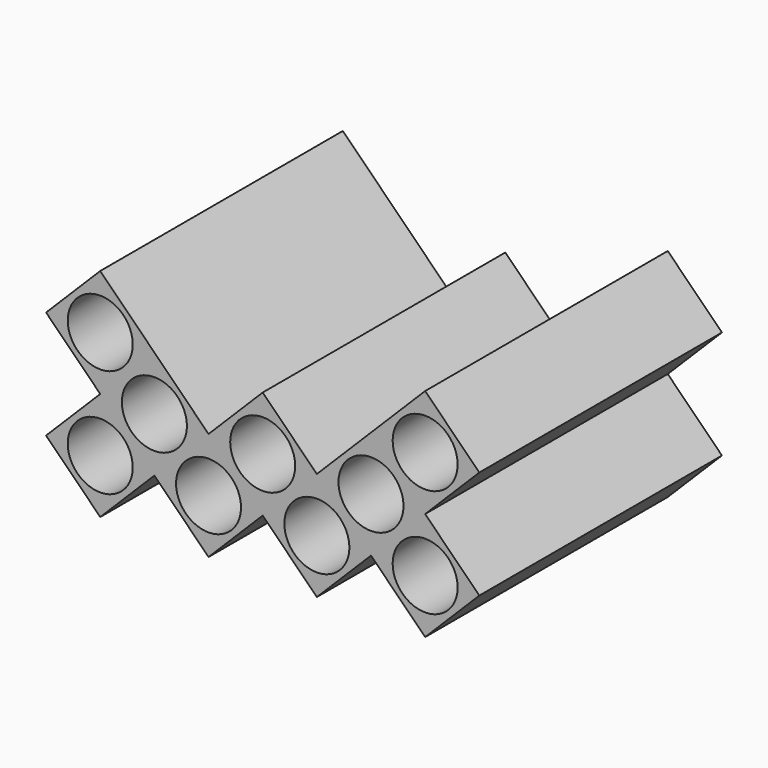
from build123d import *

# Parameters (mm, degrees)
F1_DEPTH = 70
F2_D     = 15


with BuildPart() as f1:
    # F0 (on Front) → F1 (new body)
    with BuildSketch(Plane.XZ):
        Polygon((0, 0), (-12.5, -12.5), (0, -25), (12.5, -12.5), align=None)
        Polygon((12.5, 12.5), (0, 0), (12.5, -12.5), (25, 0), align=None)
        Polygon((25, 0), (12.5, -12.5), (25, -25), (37.5, -12.5), align=None)
        Polygon((37.5, 12.5), (25, 0), (37.5, -12.5), (50, 0), align=None)
        Polygon((50, 0), (37.5, -12.5), (50, -25), (62.5, -12.5), align=None)
        Polygon((50, 25), (37.5, 12.5), (50, 0), (62.5, 12.5), align=None)
        Polygon((-12.5, 12.5), (-25, 0), (-12.5, -12.5), (0, 0), align=None)
        Polygon((-12.5, -12.5), (-25, 0), (-37.5, -12.5), (-25, -25), align=None)
        Polygon((-37.5, 12.5), (-25, 0), (-12.5, 12.5), (-25, 25), align=None)
    extrude(amount=F1_DEPTH)

    # F2 (through all)
    with Locations(Plane(origin=(0, 0, 0), x_dir=(1, 0, 0), z_dir=(0, 1, 0))):
        with Locations((-12.5, 0), (-25, 12.5), (0, 12.5), (12.5, 0), (25, 12.5), (50, 12.5), (37.5, 0), (-25, -12.5), (50, -12.5)):
            Hole(F2_D / 2)


solid = f1.part
